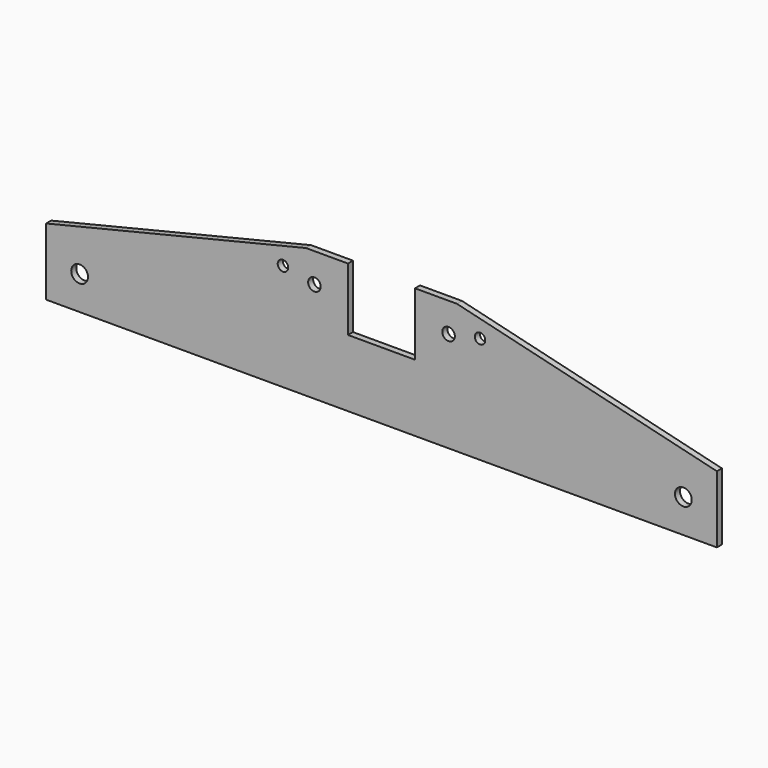
from build123d import *

# Parameters (mm, degrees)
F1_DEPTH = 4.7625
F2_R     = 6.35
F2_R_2   = 3.96875
F2_R_3   = 4.7625
F3_DEPTH = 4.7635


with BuildPart() as f1:
    # F0 (on Front) → F1 (new body)
    with BuildSketch(Plane.XZ):
        Polygon((25.4, 0), (0, 0), (0, -50.8), (254, -50.8), (254, 0), (57.15, 47.625), (25.4, 47.625), align=None)
    extrude(amount=-F1_DEPTH)

    # F2 (on Front) → F3 (cut, through all)
    with BuildSketch(Plane.XZ):
        with Locations((228.6, -25.4)):
            Circle(F2_R)
        with Locations((74.6125, 30.1625)):
            Circle(F2_R_2)
        with Locations((50.8, 25.4)):
            Circle(F2_R_3)
    extrude(amount=-F3_DEPTH, mode=Mode.SUBTRACT)

    # F4: F1 across plane


with BuildPart() as f1_1:
    add(f1.part)
    add(f1.part.mirror(Plane.YZ))


solid = f1_1.part
